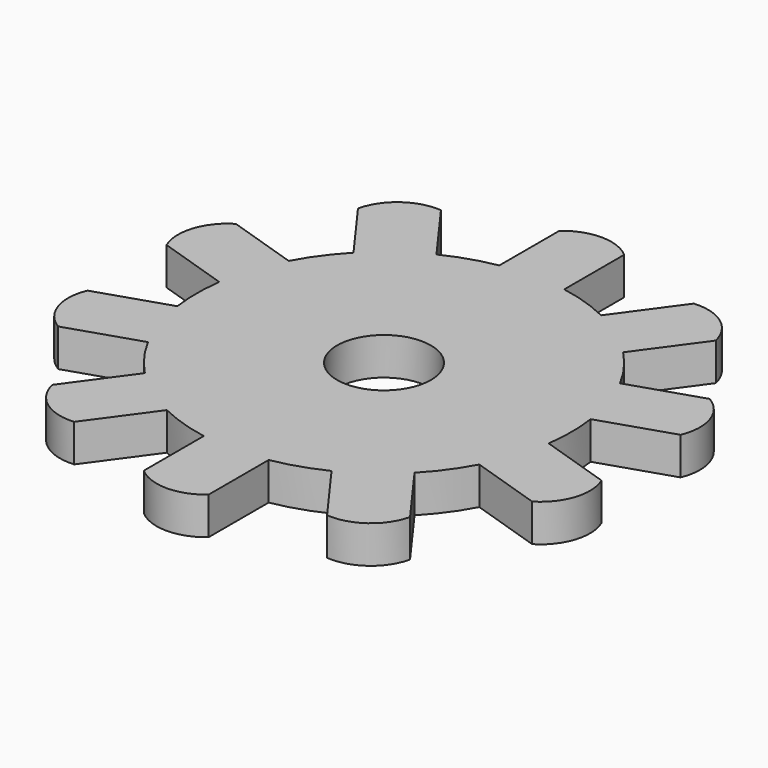
from build123d import *

# Parameters (mm, degrees)
F0_R     = 6.35
F1_DEPTH = 5.08


with BuildPart() as f1:
    # F0 (on Top) → F1 (new body)
    with BuildSketch(Plane.XY):
        with BuildLine():
            Line((-4.392071, 35.177388), (-4.392071, 25.017388))
            ThreePointArc((-4.392071, 25.017388), (-7.849032, 24.156836), (-11.151592, 22.821087))
            Line((-11.151592, 22.821087), (-17.12349, 31.040699))
            ThreePointArc((-17.12349, 31.040699), (-21.638018, 29.782177), (-24.23001, 25.877511))
            Line((-24.23001, 25.877511), (-18.258112, 17.657898))
            ThreePointArc((-18.258112, 17.657898), (-20.549032, 14.929745), (-22.435726, 11.907905))
            Line((-22.435726, 11.907905), (-32.09846, 15.047518))
            ThreePointArc((-32.09846, 15.047518), (-35.011048, 11.375779), (-34.812909, 6.693303))
            Line((-34.812909, 6.693303), (-25.150175, 3.553691))
            ThreePointArc((-25.150175, 3.553691), (-25.4, 0), (-25.150175, -3.553691))
            Line((-25.150175, -3.553691), (-34.812909, -6.693303))
            ThreePointArc((-34.812909, -6.693303), (-35.011048, -11.375779), (-32.09846, -15.047518))
            Line((-32.09846, -15.047518), (-22.435726, -11.907905))
            ThreePointArc((-22.435726, -11.907905), (-20.549032, -14.929745), (-18.258112, -17.657898))
            Line((-18.258112, -17.657898), (-24.23001, -25.877511))
            ThreePointArc((-24.23001, -25.877511), (-21.638018, -29.782177), (-17.12349, -31.040699))
            Line((-17.12349, -31.040699), (-11.151592, -22.821087))
            ThreePointArc((-11.151592, -22.821087), (-7.849032, -24.156836), (-4.392071, -25.017388))
            Line((-4.392071, -25.017388), (-4.392071, -35.177388))
            ThreePointArc((-4.392071, -35.177388), (0, -36.812795), (4.392071, -35.177388))
            Line((4.392071, -35.177388), (4.392071, -25.017388))
            ThreePointArc((4.392071, -25.017388), (7.849032, -24.156836), (11.151592, -22.821087))
            Line((11.151592, -22.821087), (17.12349, -31.040699))
            ThreePointArc((17.12349, -31.040699), (21.638018, -29.782177), (24.23001, -25.877511))
            Line((24.23001, -25.877511), (18.258112, -17.657898))
            ThreePointArc((18.258112, -17.657898), (20.549032, -14.929745), (22.435726, -11.907905))
            Line((22.435726, -11.907905), (32.09846, -15.047518))
            ThreePointArc((32.09846, -15.047518), (35.011048, -11.375779), (34.812909, -6.693303))
            Line((34.812909, -6.693303), (25.150175, -3.553691))
            ThreePointArc((25.150175, -3.553691), (25.4, 0), (25.150175, 3.553691))
            Line((25.150175, 3.553691), (34.812909, 6.693303))
            ThreePointArc((34.812909, 6.693303), (35.011048, 11.375779), (32.09846, 15.047518))
            Line((32.09846, 15.047518), (22.435726, 11.907905))
            ThreePointArc((22.435726, 11.907905), (20.549032, 14.929745), (18.258112, 17.657898))
            Line((18.258112, 17.657898), (24.23001, 25.877511))
            ThreePointArc((24.23001, 25.877511), (21.638018, 29.782177), (17.12349, 31.040699))
            Line((17.12349, 31.040699), (11.151592, 22.821087))
            ThreePointArc((11.151592, 22.821087), (7.849032, 24.156836), (4.392071, 25.017388))
            Line((4.392071, 25.017388), (4.392071, 35.177388))
            ThreePointArc((4.392071, 35.177388), (0, 36.812795), (-4.392071, 35.177388))
        make_face()
        Circle(F0_R, mode=Mode.SUBTRACT)
    extrude(amount=F1_DEPTH)


solid = f1.part
